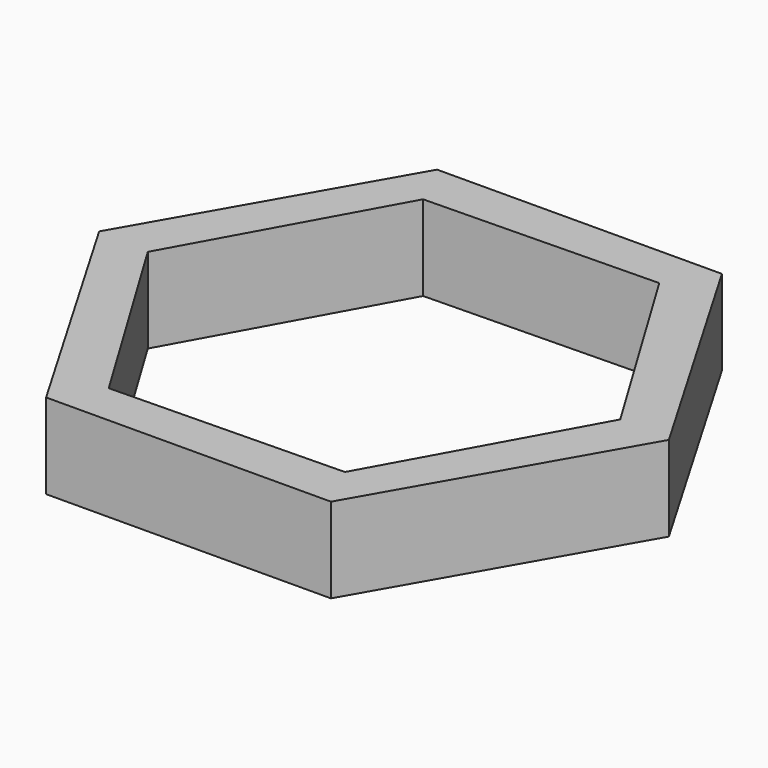
from build123d import *

# Parameters (mm, degrees)
F1_DEPTH = 75
F3_DEPTH = 24.7
F4_DEPTH = 15.24
F5_DEPTH = 75


with BuildPart() as f1:
    # F0 (on Top) → F1 (new body)
    with BuildSketch(Plane.XY):
        Polygon((-126.0027056111, 215.9243343829), (-249.9973116764, -1.1593768134), (-123.9946060653, -217.0837111962), (126.0027056111, -215.9243343829), (249.9973116764, 1.1593768134), (123.9946060653, 217.0837111962), align=None)
    extrude(amount=F1_DEPTH)

    # F2 (on face) → F3 (cut)
    with BuildSketch(Plane.XY.offset(75)):
        Polygon((-105.9065815033, 175.3874490276), (-204.8432771145, -4.024065496), (-98.9366956112, -179.4115145236), (105.9065815033, -175.3874490276), (204.8432771145, 4.024065496), (98.9366956112, 179.4115145236), align=None)
    extrude(amount=-F3_DEPTH, mode=Mode.SUBTRACT)

    # F4 (cut): a face of the model
    f4_faces = [f1.faces().sort_by_distance(p)[0] for p in [
        (0, 0, 50.3),
    ]]
    extrude(f4_faces, amount=-F4_DEPTH, mode=Mode.SUBTRACT)

    # F5 (cut): a face of the model
    f5_faces = [f1.faces().sort_by_distance(p)[0] for p in [
        (0, 0, 35.06),
    ]]
    extrude(f5_faces, amount=-F5_DEPTH, mode=Mode.SUBTRACT)


solid = f1.part
